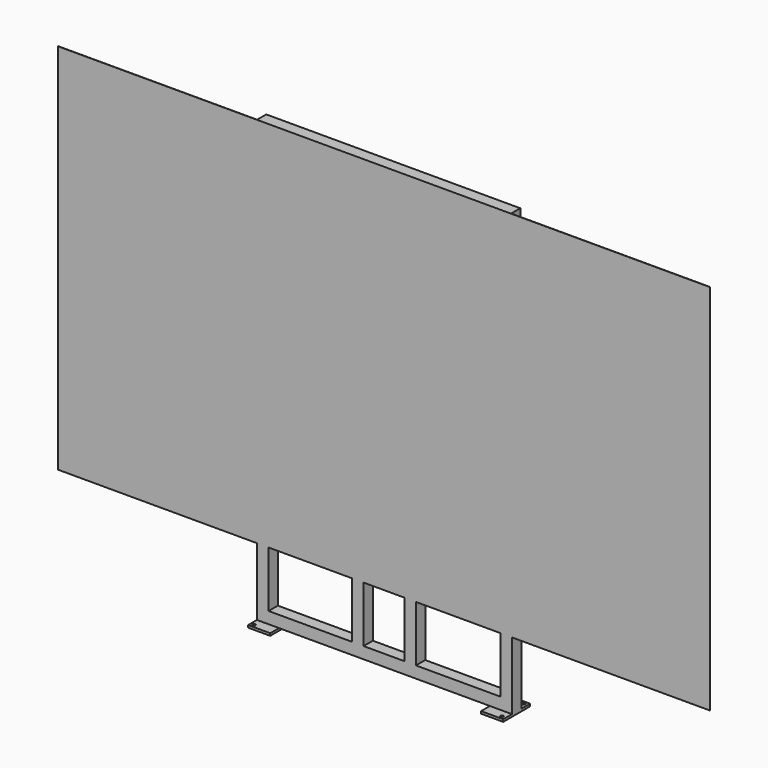
from build123d import *

# Parameters (mm, degrees)
F0_W      = 95
F0_H      = 145
F1_DEPTH  = 10
F3_D      = 13.2
F4_W      = 95
F4_H      = 50
F5_DEPTH  = 50
F6_W      = 50
F6_H      = 50
F7_DEPTH  = 1000
F8_W      = 95
F8_H      = 145
F9_DEPTH  = 10
F11_D     = 13.2
F12_W     = 50
F12_H     = 50
F13_DEPTH = 1790
F14_W     = 1090.4886555672
F14_H     = 50
F15_DEPTH = 50
F16_W     = 6
F16_H     = 40
F17_DEPTH = 97.501
F18_W     = 6
F18_H     = 40
F19_DEPTH = 97.501
F20_W     = 2800
F20_H     = 1600
F21_DEPTH = 1


with BuildPart() as f1:
    # F0 (on Top) → F1 (new body)
    with BuildSketch(Plane.XY):
        Rectangle(F0_W, F0_H)
    extrude(amount=F1_DEPTH)

    # F3 (through all)
    with Locations(Plane(origin=(0, 0, 0), x_dir=(1, 0, 0), z_dir=(0, 0, -1))):
        with Locations((31, -58.5), (31, 58.5), (-31, -58.5)):
            Hole(F3_D / 2)

    # F4 (on face) → F5 (join)
    with BuildSketch(Plane.XY.offset(10)):
        Rectangle(F4_W, F4_H)
    extrude(amount=F5_DEPTH)

    # F6 (on face) → F7 (join)
    with BuildSketch(Plane(origin=(-47.5, 0, 0), x_dir=(0, -1, 0), z_dir=(-1, 0, 0))):
        with Locations((0, 35)):
            Rectangle(F6_W, F6_H)
    extrude(amount=F7_DEPTH)

    # F8 (on face) → F9 (join)
    with BuildSketch(Plane(origin=(0, 0, 10), x_dir=(1, 0, 0), z_dir=(0, 0, -1))):
        with Locations((-1000, 0)):
            Rectangle(F8_W, F8_H)
    extrude(amount=F9_DEPTH)

    # F11 (through all)
    with Locations(Plane.XY.offset(10)):
        with Locations((-966.5, 58.5), (-1033.5, -58.5), (-1033.5, 58.5)):
            Hole(F11_D / 2)

    # F12 (on face) → F13 (join)
    with BuildSketch(Plane.XY.offset(60)):
        with Locations((22.5, 0)):
            Rectangle(F12_W, F12_H)
        with Locations((-390, 0)):
            Rectangle(F12_W, F12_H)
        with Locations((-1022.5, 0)):
            Rectangle(F12_W, F12_H)
        with Locations((-615, 0)):
            Rectangle(F12_W, F12_H)
    extrude(amount=F13_DEPTH)

    # F14 (on face) → F15 (join)
    with BuildSketch(Plane.XY.offset(1850)):
        with Locations((-502.2556722164, 0)):
            Rectangle(F14_W, F14_H)
    extrude(amount=F15_DEPTH)

    # F16 (on face) → F17 (cut, through all)
    with BuildSketch(Plane.XZ.offset(25)):
        with Locations((-1022.5, 525)):
            Rectangle(F16_W, F16_H)
        with Locations((-1022.5, 680)):
            Rectangle(F16_W, F16_H)
        with Locations((-1022.5, 835)):
            Rectangle(F16_W, F16_H)
        with Locations((-1022.5, 990)):
            Rectangle(F16_W, F16_H)
        with Locations((-1022.5, 1145)):
            Rectangle(F16_W, F16_H)
        with Locations((-1022.5, 1300)):
            Rectangle(F16_W, F16_H)
        with Locations((-1022.5, 1455)):
            Rectangle(F16_W, F16_H)
        with Locations((-1022.5, 1610)):
            Rectangle(F16_W, F16_H)
        with Locations((-1022.5, 1765)):
            Rectangle(F16_W, F16_H)
        with Locations((-615, 525)):
            Rectangle(F16_W, F16_H)
        with Locations((-615, 680)):
            Rectangle(F16_W, F16_H)
        with Locations((-615, 835)):
            Rectangle(F16_W, F16_H)
        with Locations((-615, 990)):
            Rectangle(F16_W, F16_H)
        with Locations((-615, 1145)):
            Rectangle(F16_W, F16_H)
        with Locations((-615, 1300)):
            Rectangle(F16_W, F16_H)
        with Locations((-615, 1455)):
            Rectangle(F16_W, F16_H)
        with Locations((-615, 1610)):
            Rectangle(F16_W, F16_H)
        with Locations((-615, 1765)):
            Rectangle(F16_W, F16_H)
    extrude(amount=-F17_DEPTH, mode=Mode.SUBTRACT)

    # F18 (on face) → F19 (cut, through all)
    with BuildSketch(Plane.XZ.offset(25)):
        with Locations((-390, 525)):
            Rectangle(F18_W, F18_H)
        with Locations((-390, 680)):
            Rectangle(F18_W, F18_H)
        with Locations((-390, 835)):
            Rectangle(F18_W, F18_H)
        with Locations((-390, 990)):
            Rectangle(F18_W, F18_H)
        with Locations((-390, 1145)):
            Rectangle(F18_W, F18_H)
        with Locations((-390, 1300)):
            Rectangle(F18_W, F18_H)
        with Locations((-390, 1455)):
            Rectangle(F18_W, F18_H)
        with Locations((-390, 1610)):
            Rectangle(F18_W, F18_H)
        with Locations((-390, 1765)):
            Rectangle(F18_W, F18_H)
        with Locations((17.5, 525)):
            Rectangle(F18_W, F18_H)
        with Locations((17.5, 680)):
            Rectangle(F18_W, F18_H)
        with Locations((17.5, 835)):
            Rectangle(F18_W, F18_H)
        with Locations((17.5, 990)):
            Rectangle(F18_W, F18_H)
        with Locations((17.5, 1145)):
            Rectangle(F18_W, F18_H)
        with Locations((17.5, 1300)):
            Rectangle(F18_W, F18_H)
        with Locations((17.5, 1455)):
            Rectangle(F18_W, F18_H)
        with Locations((17.5, 1610)):
            Rectangle(F18_W, F18_H)
        with Locations((17.5, 1765)):
            Rectangle(F18_W, F18_H)
    extrude(amount=-F19_DEPTH, mode=Mode.SUBTRACT)

    # F20 (on face) → F21 (join)
    with BuildSketch(Plane.XZ.offset(25)):
        with Locations((-502.5, 1100)):
            Rectangle(F20_W, F20_H)
    extrude(amount=-F21_DEPTH)


solid = f1.part
